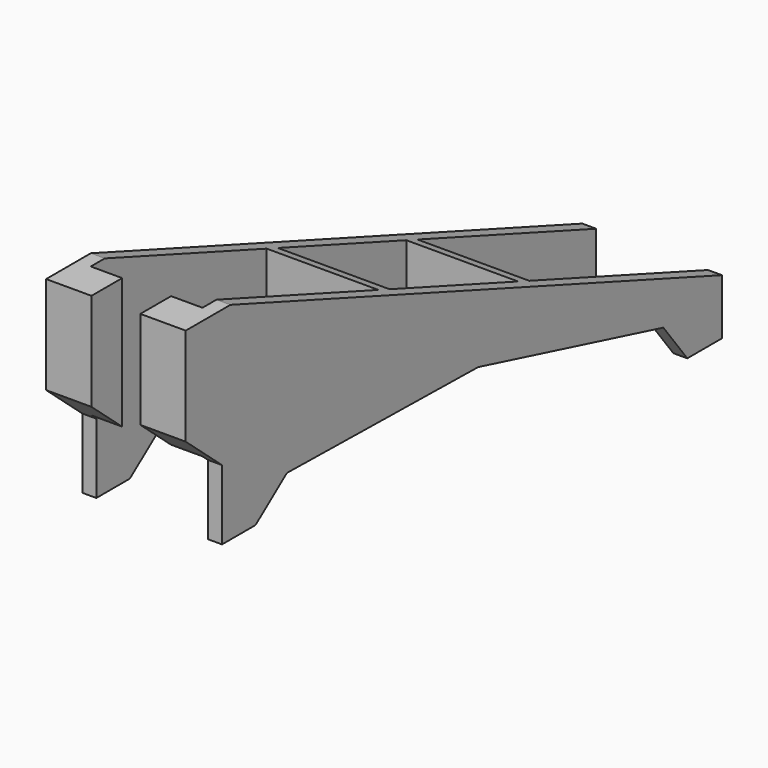
from build123d import *

# Parameters (mm, degrees)
F0_R     = 1.25
F0_W     = 16
F0_H     = 23
F1_DEPTH = 40
F3_DEPTH = 50


with BuildPart() as f1:
    # F0 (on Top) → F1 (new body)
    with BuildSketch(Plane.XY):
        Polygon((3.5, -45), (10, -45), (10, 45), (10, 51), (8, 51), (8, 45), (8, 19), (-8, 19), (-8, 45), (-8, 51), (-10, 51), (-10, 45), (-10, -45), (-3.5, -45), (-3.5, -39.5), (-8, -39.5), (-8, -8), (8, -8), (8, -39.5), (3.5, -39.5), align=None)
        with Locations((-7.5, -42.5)):
            Circle(F0_R, mode=Mode.SUBTRACT)
        with Locations((7.5, -42.5)):
            Circle(F0_R, mode=Mode.SUBTRACT)
        with Locations((0, 5.5)):
            Rectangle(F0_W, F0_H, mode=Mode.SUBTRACT)
        with Locations((-7.5, -42.5)):
            Circle(F0_R)
        with Locations((7.5, -42.5)):
            Circle(F0_R)
    extrude(amount=F1_DEPTH)

    # F2 (on face) → F3 (cut)
    with BuildSketch(Plane(origin=(-10, 0, 0), x_dir=(0, -1, 0), z_dir=(-1, 0, 0))):
        Polygon((37, 40), (-51, 40), (-51, 7.970619), align=None)
        Polygon((-40.514632, 5.61842), (-44.800134, 0), (38.5, 0), (38.5, 10.4), (32.5, 10.4), (26.877765, 14.688412), (-7.351962, 14.117675), align=None)
        Polygon((45, 0), (45, 26), (38.5, 20.4), (38.5, 10.4), (38.5, 0), align=None)
    extrude(amount=-F3_DEPTH, mode=Mode.SUBTRACT)


solid = f1.part
